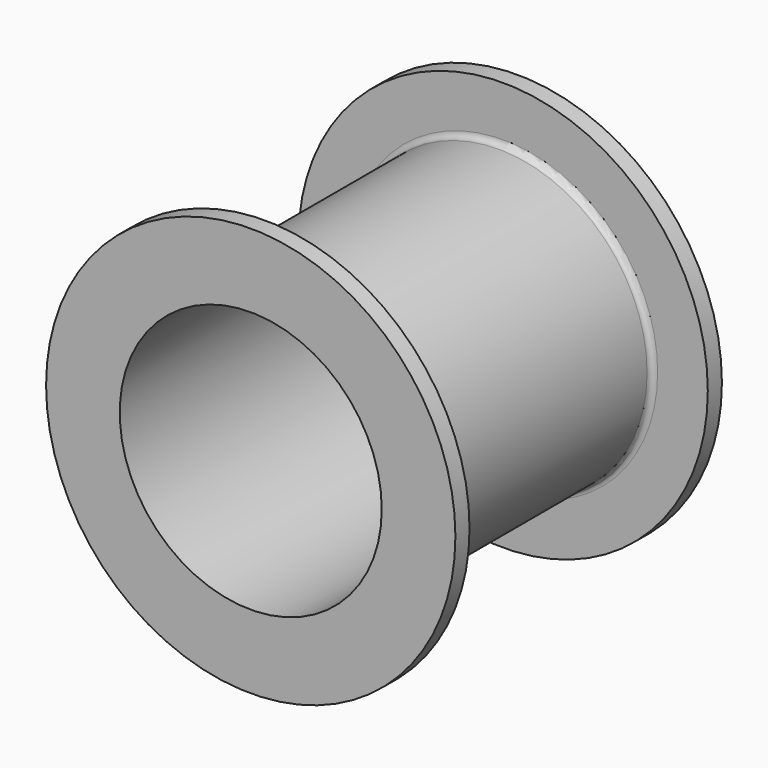
from build123d import *


with BuildPart() as f1:
    # F0 (on Top) → F1 (revolve)
    with BuildSketch(Plane.XY):
        with BuildLine():
            Line((13.1365, 12.665), (17.399, 12.665))
            Line((17.399, 12.665), (17.399, 14.165))
            Line((17.399, 14.165), (11.1365, 14.165))
            Line((11.1365, 14.165), (11.1365, -14.156))
            Line((11.1365, -14.156), (17.399, -14.156))
            Line((17.399, -14.156), (17.399, -12.656))
            Line((17.399, -12.656), (13.1365, -12.656))
            ThreePointArc((13.1365, -12.656), (12.782947, -12.509553), (12.6365, -12.156))
            Line((12.6365, -12.156), (12.6365, 12.165))
            ThreePointArc((12.6365, 12.165), (12.782947, 12.518553), (13.1365, 12.665))
        make_face()
    revolve(axis=Axis((0, 2.854013, 0), (0, 1, 0)))


solid = f1.part
